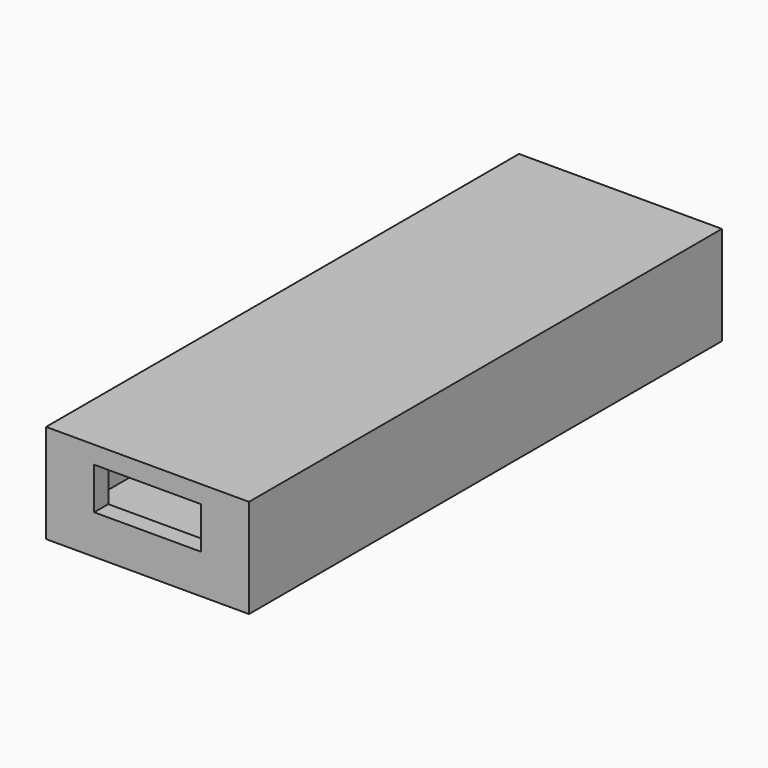
from build123d import *

# Parameters (mm, degrees)
F0_W      = 23
F0_H      = 67
F1_DEPTH  = 11.2
F2_W      = 19
F2_H      = 63
F3_DEPTH  = 9.2
F4_W      = 12.1
F4_H      = 13.5
F5_DEPTH  = 12
F7_DEPTH  = 2
F9_DEPTH  = 1
F11_DEPTH = 1
F12_W     = 63
F12_H     = 1.9999997959
F13_DEPTH = 21
F14_DEPTH = 2
F15_W     = 7.9889474437
F15_H     = 3.3084521592
F16_DEPTH = 1


with BuildPart() as f1:
    # F0 (on Top) → F1 (new body)
    with BuildSketch(Plane.XY):
        with Locations((5.9262745458, 0)):
            Rectangle(F0_W, F0_H)
    extrude(amount=F1_DEPTH)

    # F2 (on face) → F3 (cut)
    with BuildSketch(Plane.XY.offset(11.2)):
        with Locations((5.9262745458, 0)):
            Rectangle(F2_W, F2_H)
    extrude(amount=-F3_DEPTH, mode=Mode.SUBTRACT)

    # F4 (on face) → F5 (cut)
    with BuildSketch(Plane.XZ.offset(33.5)):
        with Locations((5.9262745458, 11.2)):
            Rectangle(F4_W, F4_H)
    extrude(amount=-F5_DEPTH, mode=Mode.SUBTRACT)

    # F6 (on face) → F7 (cut)
    with BuildSketch(Plane(origin=(0, 33.5, 0), x_dir=(-1, 0, 0), z_dir=(0, 1, 0))):
        with BuildLine():
            ThreePointArc((-5.9262745458, 9.6), (-8.7547016705, 8.4284271247), (-9.9262745458, 5.6))
            Line((-9.9262745458, 5.6), (-5.9262745458, 5.6))
            Line((-5.9262745458, 5.6), (-5.9262745458, 9.6))
        make_face()
        with BuildLine():
            Line((-5.9262745458, 5.6), (-9.9262745458, 5.6))
            ThreePointArc((-9.9262745458, 5.6), (-8.7547016705, 2.7715728753), (-5.9262745458, 1.6))
            Line((-5.9262745458, 1.6), (-5.9262745458, 5.6))
        make_face()
        with BuildLine():
            Line((-5.9262745458, 9.6), (-5.9262745458, 5.6))
            Line((-5.9262745458, 5.6), (-1.9262745458, 5.6))
            ThreePointArc((-1.9262745458, 5.6), (-3.097847421, 8.4284271247), (-5.9262745458, 9.6))
        make_face()
        with BuildLine():
            Line((-1.9262745458, 5.6), (-5.9262745458, 5.6))
            Line((-5.9262745458, 5.6), (-5.9262745458, 1.6))
            ThreePointArc((-5.9262745458, 1.6), (-3.097847421, 2.7715728753), (-1.9262745458, 5.6))
        make_face()
    extrude(amount=-F7_DEPTH, mode=Mode.SUBTRACT)

    # F8 (on face) → F9 (cut)
    with BuildSketch(Plane.XY.offset(2)):
        Polygon((4.1827149684, 31.5), (1.9262745458, 31.5), (1.9262745458, 25.1600015908), (9.9262745458, 25.1600015908), (9.9262745458, 31.5), (7.6698341232, 31.5), align=None)
    extrude(amount=-F9_DEPTH, mode=Mode.SUBTRACT)

    # F10 (on face) → F11 (join)
    with BuildSketch(Plane.XY.offset(2)):
        Polygon((1.9262745458, 31.5), (-3.5737254542, 31.5), (-3.5737254542, -31.5), (15.4262745458, -31.5), (15.4262745458, 31.5), (9.9262745458, 31.5), (9.9262745458, 25.1600015908), (1.9262745458, 25.1600015908), align=None)
    extrude(amount=F11_DEPTH)

    # F12 (on face) → F13 (join)
    with BuildSketch(Plane.YZ.offset(-3.5737254542)):
        with Locations((0, 10.2000001021)):
            Rectangle(F12_W, F12_H)
    extrude(amount=F13_DEPTH)

    # F14 (add): a face of the model
    f14_faces = [f1.faces().sort_by_distance(p)[0] for p in [
        (5.9262745458, -31.5, 10.2000001021),
    ]]
    extrude(f14_faces, amount=F14_DEPTH)

    # F15 (on face) → F16 (cut)
    with BuildSketch(Plane(origin=(0, 0, 9.2000002041), x_dir=(1, 0, 0), z_dir=(0, 0, -1))):
        with Locations((5.9536970221, -29.8457739204)):
            Rectangle(F15_W, F15_H)
    extrude(amount=-F16_DEPTH, mode=Mode.SUBTRACT)


solid = f1.part
